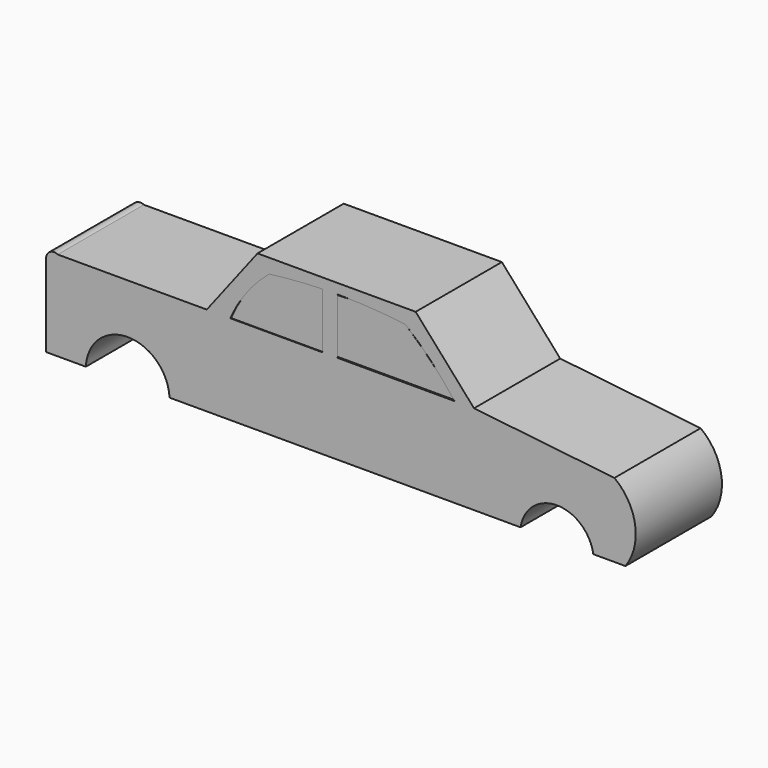
from build123d import *

# Parameters (mm, degrees)
F1_DEPTH = 38.608
F3_DEPTH = 38.5953


with BuildPart() as f1:
    # F0 (on Front) → F1 (new body)
    with BuildSketch(Plane.XZ):
        with BuildLine():
            Line((5.455228, 29.246081), (-12.728863, 5.606762))
            Line((-12.728863, 5.606762), (-66.166602, 5.606762))
            ThreePointArc((-66.166602, 5.606762), (-68.948689, 5.507361), (-70.311822, 3.080067))
            Line((-70.311822, 3.080067), (-70.311822, -26.518468))
            Line((-70.311822, -26.518468), (-56.067616, -26.518468))
            ThreePointArc((-56.067616, -26.518468), (-41.065739, -12.250441), (-26.063863, -26.518468))
            Line((-26.063863, -26.518468), (99.709436, -26.518468))
            ThreePointArc((99.709436, -26.518468), (112.741366, -15.32413), (125.773296, -26.518468))
            Line((125.773296, -26.518468), (137.289882, -26.518468))
            ThreePointArc((137.289882, -26.518468), (140.785715, -12.447177), (133.35, 0))
            Line((133.35, 0), (83.040677, 5.606762))
            Line((83.040677, 5.606762), (62.12898, 29.246081))
            Line((62.12898, 29.246081), (5.455228, 29.246081))
        make_face()
        with BuildLine():
            ThreePointArc((-4.277792, 5.606762), (1.596719, 15.679974), (9.666761, 24.09745))
            ThreePointArc((9.666761, 24.09745), (19.193217, 25.065891), (28.755875, 25.56269))
            Line((28.755875, 25.56269), (28.755875, 5.606762))
            Line((28.755875, 5.606762), (-4.277792, 5.606762))
        make_face(mode=Mode.SUBTRACT)
        with BuildLine():
            ThreePointArc((58.389675, 24.09745), (67.767743, 15.381996), (76.035276, 5.606762))
            Line((76.035276, 5.606762), (34.028218, 5.606762))
            Line((34.028218, 5.606762), (34.028218, 25.634406))
            ThreePointArc((34.028218, 25.634406), (46.233164, 25.249785), (58.389675, 24.09745))
        make_face(mode=Mode.SUBTRACT)
    extrude(amount=F1_DEPTH)


with BuildPart() as f3:
    # F2 (on Front) → F3 (new body)
    with BuildSketch(Plane.XZ):
        with BuildLine():
            Line((34.181416, 5.942438), (75.989068, 5.942438))
            ThreePointArc((75.989068, 5.942438), (67.534141, 15.584471), (58.148734, 24.323391))
            ThreePointArc((58.148734, 24.323391), (46.194673, 25.520098), (34.181416, 25.404625))
            Line((34.181416, 25.404625), (34.181416, 5.942438))
        make_face()
        with BuildLine():
            Line((28.955458, 5.762233), (28.955458, 25.765035))
            ThreePointArc((28.955458, 25.765035), (18.989038, 25.470346), (9.132861, 23.96298))
            ThreePointArc((9.132861, 23.96298), (1.508575, 15.619196), (-4.022135, 5.762233))
            Line((-4.022135, 5.762233), (28.955458, 5.762233))
        make_face()
    extrude(amount=F3_DEPTH)


solid = Compound([f1.part, f3.part])
